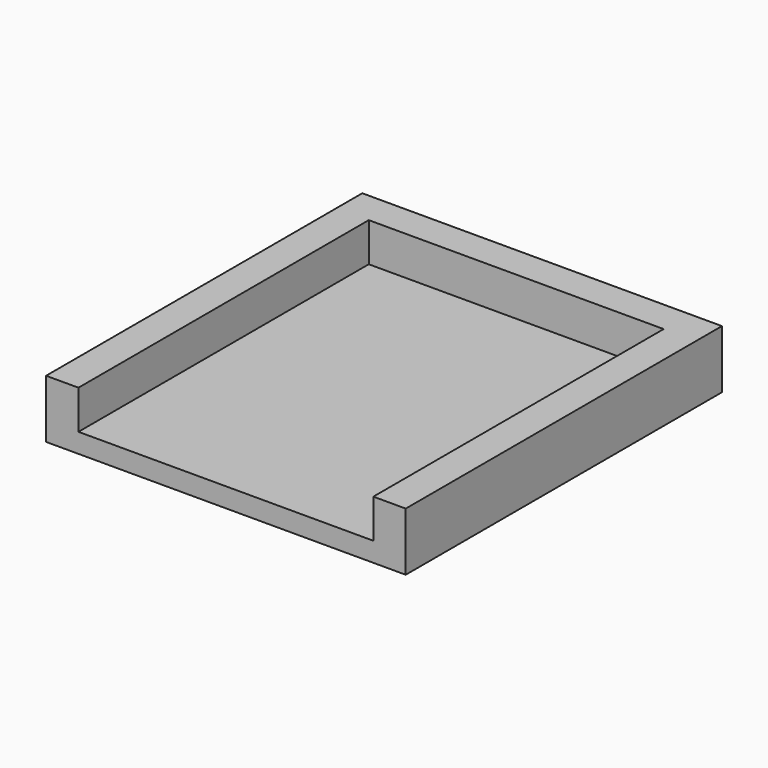
from build123d import *

# Parameters (mm, degrees)
F0_W     = 9.11
F0_H     = 11.21
F1_DEPTH = 0.6
F2_DEPTH = 1.2


with BuildPart() as f1:
    # F0 (on Top) → F1 (new body)
    with BuildSketch(Plane.XY):
        Polygon((11.11, 0), (0, 0), (0, -12.21), (1, -12.21), (1, -1), (10.11, -1), (10.11, -12.21), (11.11, -12.21), align=None)
        with Locations((5.555, -6.605)):
            Rectangle(F0_W, F0_H)
    extrude(amount=-F1_DEPTH)

    # F0 (on Top) → F2 (join)
    with BuildSketch(Plane.XY):
        Polygon((11.11, 0), (0, 0), (0, -12.21), (1, -12.21), (1, -1), (10.11, -1), (10.11, -12.21), (11.11, -12.21), align=None)
    extrude(amount=F2_DEPTH)


solid = f1.part
